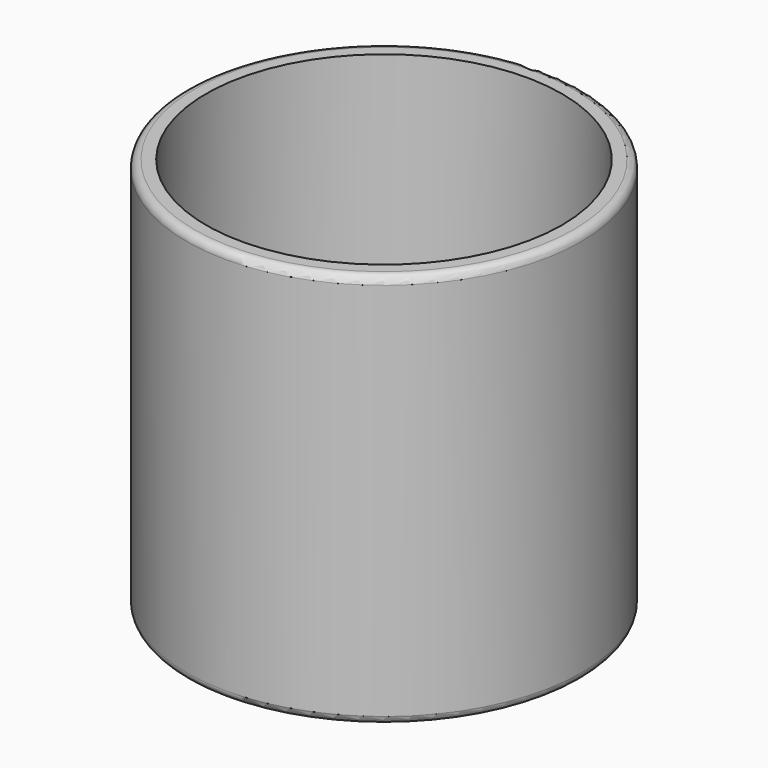
from build123d import *

# Parameters (mm, degrees)
F0_R     = 25
F1_DEPTH = 50
F2_T     = -2.5
F3_R     = 1


with BuildPart() as f1:
    # F0 (on Top) → F1 (new body)
    with BuildSketch(Plane.XY):
        Circle(F0_R)
    extrude(amount=F1_DEPTH)

    # F2
    f2_openings = [f1.faces().sort_by_distance(p)[0] for p in [
        (0, 0, 50),
    ]]
    offset(amount=F2_T, openings=f2_openings)

    # F3
    f3_edges = [f1.edges().sort_by_distance(p)[0] for p in [
        (25, 0, 25),
        (-25, 0, 0),
        (-25, 0, 50),
    ]]
    fillet(f3_edges, radius=F3_R)


solid = f1.part
